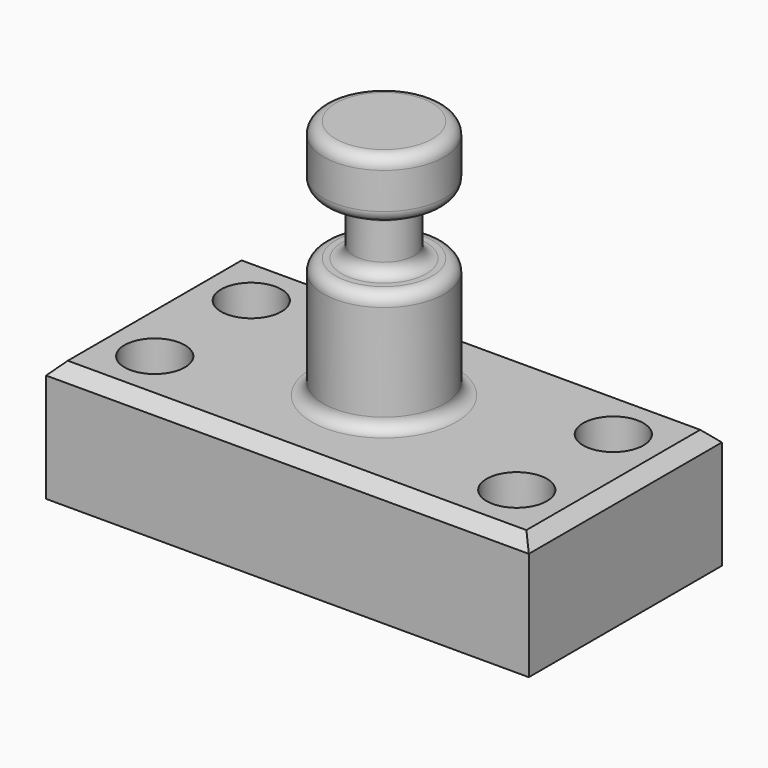
from build123d import *

# Parameters (mm, degrees)
F0_W     = 101.6
F0_H     = 50.8
F1_DEPTH = 25.4
F3_W     = 12.7
F3_H     = 50.8
F2_R     = 6.35
F5_DEPTH = 25.401
F6_W     = 8.9197083833
F6_H     = 12.7
F8_R     = 2.54
F9_SIZE  = 2.54


with BuildPart() as f1:
    # F0 (on Top) → F1 (new body)
    with BuildSketch(Plane.XY):
        Rectangle(F0_W, F0_H)
    extrude(amount=F1_DEPTH)

    # F3 (on Front) → F4 (revolve)
    with BuildSketch(Plane.XZ):
        with Locations((-6.35, 50.8)):
            Rectangle(F3_W, F3_H)
    revolve(axis=Axis((0, 0, 50.8), (0, 0, -1)))

    # F2 (on face) → F5 (cut, through all)
    with BuildSketch(Plane.XY.offset(25.4)):
        with Locations((38.1, -12.7)):
            Circle(F2_R)
        with Locations((-38.1, 12.7)):
            Circle(F2_R)
        with Locations((38.1, 12.7)):
            Circle(F2_R)
        with Locations((-38.1, -12.7)):
            Circle(F2_R)
    extrude(amount=-F5_DEPTH, mode=Mode.SUBTRACT)

    # F6 (on Front) → F7 (revolve, cut)
    with BuildSketch(Plane.XZ):
        with Locations((-10.8098541917, 57.15)):
            Rectangle(F6_W, F6_H)
    revolve(axis=Axis((0, 0, 43.5192137957), (0, 0, 1)), mode=Mode.SUBTRACT)

    # F8
    f8_edges = [f1.edges().sort_by_distance(p)[0] for p in [
        (12.7, 0, 50.8),
        (12.7, 0, 25.4),
        (6.35, 0, 50.8),
        (6.35, 0, 63.5),
        (12.7, 0, 63.5),
        (12.7, 0, 76.2),
    ]]
    fillet(f8_edges, radius=F8_R)

    # F9
    f9_edges = [f1.edges().sort_by_distance(p)[0] for p in [
        (0, -25.4, 25.4),
        (-50.8, 0, 25.4),
        (0, 25.4, 25.4),
        (50.8, 0, 25.4),
    ]]
    chamfer(f9_edges, length=F9_SIZE)


solid = f1.part
